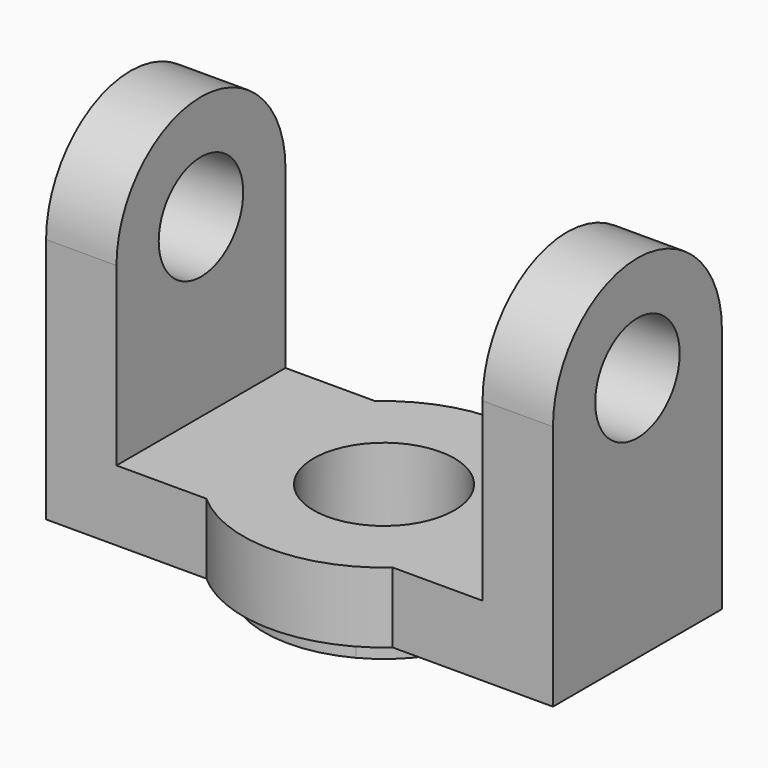
from build123d import *

# Parameters (mm, degrees)
F0_R        = 10
F1_DEPTH    = 10
F2_DEPTH    = 3
F2_FACE_R   = 17
F2_FACE_R_2 = 10
F4_DEPTH    = 10
F5_R        = 7.5
F6_DEPTH    = 10
F8_R        = 7.5
F9_DEPTH    = 10


with BuildPart() as f1:
    # F0 (on Top) → F1 (new body)
    with BuildSketch(Plane.XY):
        with BuildLine():
            Line((-36, -15), (-13.2287565553, -15))
            ThreePointArc((-13.2287565553, -15), (-20, 0), (-13.2287565553, 15))
            Line((-13.2287565553, 15), (-36, 15))
            Line((-36, 15), (-36, -15))
        make_face()
        with BuildLine():
            Line((-8, -15), (8, -15))
            ThreePointArc((8, -15), (14.5773797371, -8.7464278423), (17, 0))
            ThreePointArc((17, 0), (14.5773797371, 8.7464278423), (8, 15))
            Line((8, 15), (-8, 15))
            ThreePointArc((-8, 15), (-17, 0), (-8, -15))
        make_face()
        Circle(F0_R, mode=Mode.SUBTRACT)
        with BuildLine():
            Line((13.2287565553, -15), (36, -15))
            Line((36, -15), (36, 15))
            Line((36, 15), (13.2287565553, 15))
            ThreePointArc((13.2287565553, 15), (18.2287565553, 8.2287565553), (20, 0))
            ThreePointArc((20, 0), (18.2287565553, -8.2287565553), (13.2287565553, -15))
        make_face()
        with BuildLine():
            ThreePointArc((-13.2287565553, 15), (-20, 0), (-13.2287565553, -15))
            Line((-13.2287565553, -15), (-8, -15))
            ThreePointArc((-8, -15), (-17, 0), (-8, 15))
            Line((-8, 15), (-13.2287565553, 15))
        make_face()
        with BuildLine():
            Line((8, -15), (13.2287565553, -15))
            ThreePointArc((13.2287565553, -15), (18.2287565553, -8.2287565553), (20, 0))
            ThreePointArc((20, 0), (18.2287565553, 8.2287565553), (13.2287565553, 15))
            Line((13.2287565553, 15), (8, 15))
            ThreePointArc((8, 15), (14.5773797371, 8.7464278423), (17, 0))
            ThreePointArc((17, 0), (14.5773797371, -8.7464278423), (8, -15))
        make_face()
    extrude(amount=F1_DEPTH)

    # F0 (on Top) → F2 (join)
    with BuildSketch(Plane.XY):
        with BuildLine():
            Line((-8, -15), (8, -15))
            ThreePointArc((8, -15), (14.5773797371, -8.7464278423), (17, 0))
            ThreePointArc((17, 0), (14.5773797371, 8.7464278423), (8, 15))
            Line((8, 15), (-8, 15))
            ThreePointArc((-8, 15), (-17, 0), (-8, -15))
        make_face()
        Circle(F0_R, mode=Mode.SUBTRACT)
        with BuildLine():
            ThreePointArc((-8, -15), (0, -17), (8, -15))
            Line((8, -15), (-8, -15))
        make_face()
        with BuildLine():
            Line((-8, 15), (8, 15))
            ThreePointArc((8, 15), (0, 17), (-8, 15))
        make_face()
    extrude(amount=-F2_DEPTH)

    # F0 (on Top) + F2_face (on face) → F4 (join)
    with BuildSketch(Plane.XY):
        with BuildLine():
            ThreePointArc((-13.2287565553, -15), (0, -20), (13.2287565553, -15))
            Line((13.2287565553, -15), (8, -15))
            ThreePointArc((8, -15), (0, -17), (-8, -15))
            Line((-8, -15), (-13.2287565553, -15))
        make_face()
        with BuildLine():
            Line((8, -15), (13.2287565553, -15))
            ThreePointArc((13.2287565553, -15), (18.2287565553, -8.2287565553), (20, 0))
            ThreePointArc((20, 0), (18.2287565553, 8.2287565553), (13.2287565553, 15))
            Line((13.2287565553, 15), (8, 15))
            ThreePointArc((8, 15), (14.5773797371, 8.7464278423), (17, 0))
            ThreePointArc((17, 0), (14.5773797371, -8.7464278423), (8, -15))
        make_face()
        with BuildLine():
            Line((8, 15), (13.2287565553, 15))
            ThreePointArc((13.2287565553, 15), (0, 20), (-13.2287565553, 15))
            Line((-13.2287565553, 15), (-8, 15))
            ThreePointArc((-8, 15), (0, 17), (8, 15))
        make_face()
        with BuildLine():
            ThreePointArc((-13.2287565553, 15), (-20, 0), (-13.2287565553, -15))
            Line((-13.2287565553, -15), (-8, -15))
            ThreePointArc((-8, -15), (-17, 0), (-8, 15))
            Line((-8, 15), (-13.2287565553, 15))
        make_face()
        with BuildLine():
            ThreePointArc((-8, -15), (0, -17), (8, -15))
            Line((8, -15), (-8, -15))
        make_face()
        with BuildLine():
            Line((-8, 15), (8, 15))
            ThreePointArc((8, 15), (0, 17), (-8, 15))
        make_face()
    with BuildSketch(Plane(origin=(0, 0, -3), x_dir=(1, 0, 0), z_dir=(0, 0, -1))):
        Circle(F2_FACE_R)
        Circle(F2_FACE_R_2, mode=Mode.SUBTRACT)
    extrude(amount=F4_DEPTH, dir=(0, 0, 1))

    # F5 (on offset) → F6 (join)
    with BuildSketch(Plane.YZ.offset(36)):
        with BuildLine():
            Line((-15, 35), (-15, 0))
            Line((-15, 0), (15, 0))
            Line((15, 0), (15, 35))
            ThreePointArc((15, 35), (0, 50), (-15, 35))
        make_face()
        with Locations((0, 35)):
            Circle(F5_R, mode=Mode.SUBTRACT)
    extrude(amount=-F6_DEPTH)

    # F8 (on offset) → F9 (join)
    with BuildSketch(Plane(origin=(-36, 0, 0), x_dir=(0, -1, 0), z_dir=(-1, 0, 0))):
        with BuildLine():
            Line((-15, 35), (-15, 0))
            Line((-15, 0), (15, 0))
            Line((15, 0), (15, 35))
            ThreePointArc((15, 35), (0, 50), (-15, 35))
        make_face()
        with Locations((0, 35)):
            Circle(F8_R, mode=Mode.SUBTRACT)
    extrude(amount=-F9_DEPTH)


solid = f1.part
